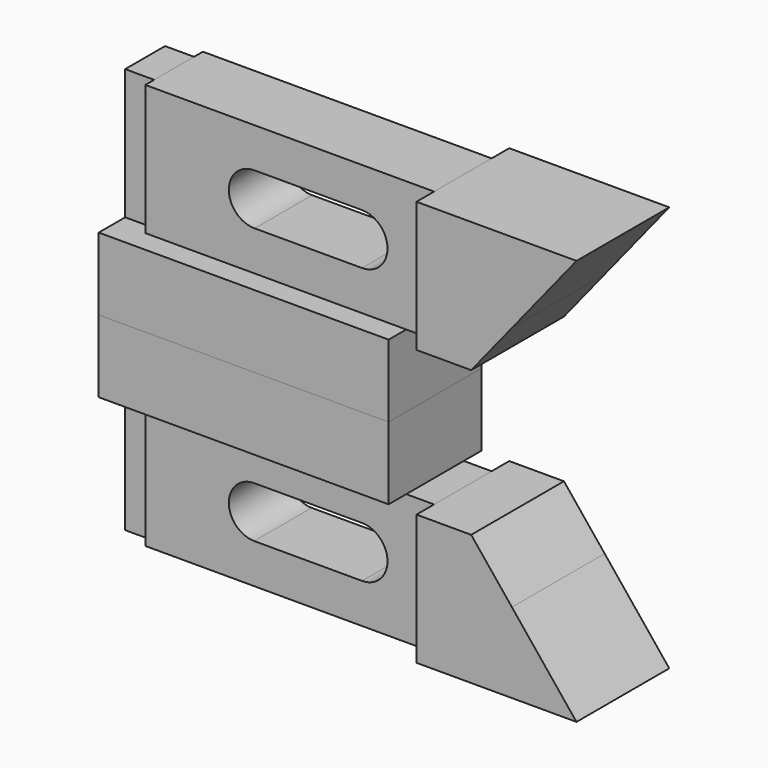
from build123d import *

# Parameters (mm, degrees)
F1_DEPTH = 12.7
F2_DEPTH = 7.874
F0_W     = 6.35
F0_H     = 14.2875
F3_DEPTH = 5.461


with BuildPart() as f1:
    # F0 (on Front) → F1 (new body, symmetric)
    with BuildSketch(Plane.XZ):
        Polygon((-25.3992669116, 7.9375), (-31.7492669116, 7.9375), (-31.7492669116, -7.9375), (31.7492669116, -7.9375), (31.7492669116, 7.9375), align=None)
    extrude(amount=F1_DEPTH, both=True)


with BuildPart() as f1b:
    # F0 (on Front) → F1, piece 2 (new body, symmetric)
    with BuildSketch(Plane.XZ):
        Polygon((37.8467330884, 36.5125), (37.8467330884, 18.9865), (58.7490534106, 18.9865), (72.8987330884, 36.5125), align=None)
        Polygon((37.8467330884, 18.9865), (37.8467330884, 7.9375), (49.8286031789, 7.9375), (58.7490534106, 18.9865), align=None)
    extrude(amount=F1_DEPTH, both=True)


with BuildPart() as f2:
    # F0 (on Front) → F2 (new body, symmetric)
    with BuildSketch(Plane.XZ):
        Polygon((-25.3992669116, 22.225), (-25.3992669116, 7.9375), (31.7492669116, 7.9375), (37.8467330884, 7.9375), (37.8467330884, 18.9865), (37.8467330884, 36.5125), (-25.3992669116, 36.5125), align=None)
        with BuildLine():
            ThreePointArc((-1.4419096179, 16.6375922835), (-5.4457099923, 18.2450271008), (-7.1112669116, 22.225))
            ThreePointArc((-7.1112669116, 22.225), (-5.4870245918, 26.1638283858), (-1.5585220824, 27.8128887849))
            Line((-1.5585220824, 27.8128887849), (22.0465285058, 27.813))
            ThreePointArc((22.0465285058, 27.8129999999), (25.9978582186, 26.1763220015), (27.6345548337, 22.225))
            ThreePointArc((27.6345548337, 22.225), (25.9978177084, 18.2736374889), (22.0464139266, 16.6370000018))
            Line((22.0464139266, 16.6370000018), (-1.4419096179, 16.6375922835))
        make_face(mode=Mode.SUBTRACT)
    extrude(amount=F2_DEPTH, both=True)


with BuildPart() as f3:
    # F0 (on Front) → F3 (new body, symmetric)
    with BuildSketch(Plane.XZ):
        with Locations((-28.5742669116, 29.36875)):
            Rectangle(F0_W, F0_H)
        with Locations((-28.5742669116, 15.08125)):
            Rectangle(F0_W, F0_H)
    extrude(amount=F3_DEPTH, both=True)


with BuildPart() as f4_1:
    # F4: instance of F3
    add(f3.part.mirror(Plane(origin=(0, 0, -7.9375), x_dir=(1, 0, 0), z_dir=(0, 0, -1))))


with BuildPart() as f4_2:
    # F4: instance of F2
    add(f2.part.mirror(Plane(origin=(0, 0, -7.9375), x_dir=(1, 0, 0), z_dir=(0, 0, -1))))


with BuildPart() as f4_3:
    # F4: instance of F1b
    add(f1b.part.mirror(Plane(origin=(0, 0, -7.9375), x_dir=(1, 0, 0), z_dir=(0, 0, -1))))


with BuildPart() as f4_4:
    # F4: instance of F1
    add(f1.part.mirror(Plane(origin=(0, 0, -7.9375), x_dir=(1, 0, 0), z_dir=(0, 0, -1))))


solid = Compound([f1.part, f1b.part, f2.part, f3.part, f4_1.part, f4_2.part, f4_3.part, f4_4.part])
